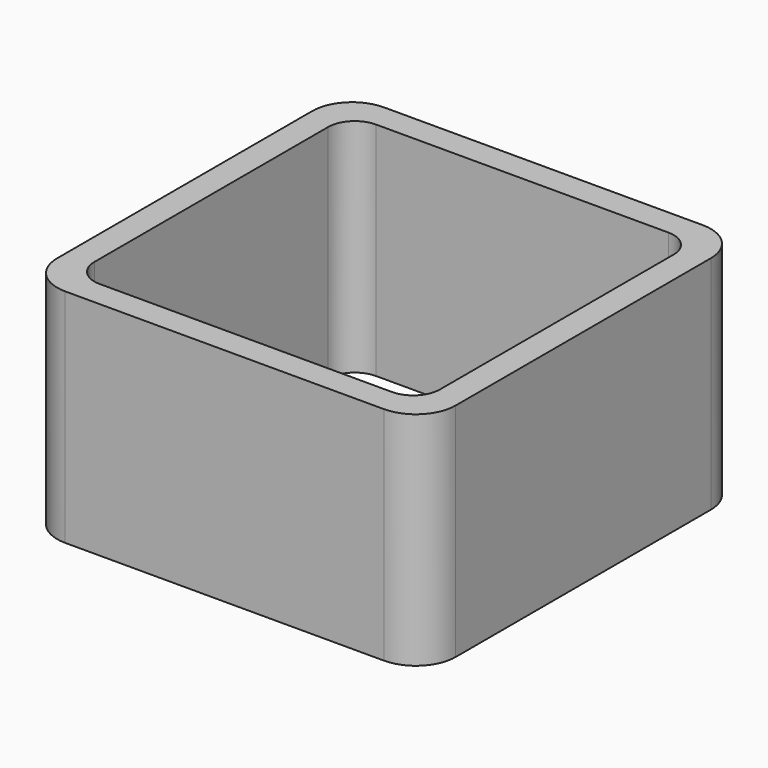
from build123d import *

# Parameters (mm, degrees)
EXTRUDE_DEPTH = 50


with BuildPart() as part:
    # Sketch → Extrude (new body)
    with BuildSketch(Plane.XY):
        with BuildLine():
            Line((-36, 45), (36, 45))
            ThreePointArc((45, 36), (42.363961, 42.363961), (36, 45))
            Line((45, 36), (45, -36))
            ThreePointArc((36, -45), (42.363961, -42.363961), (45, -36))
            Line((36, -45), (-36, -45))
            ThreePointArc((-45, -36), (-42.363961, -42.363961), (-36, -45))
            Line((-45, -36), (-45, 36))
            ThreePointArc((-36, 45), (-42.363961, 42.363961), (-45, 36))
        make_face()
        with BuildLine():
            Line((-33, 39), (33, 39))
            ThreePointArc((39, 33), (37.242641, 37.242641), (33, 39))
            Line((39, 33), (39, -33))
            ThreePointArc((33, -39), (37.242641, -37.242641), (39, -33))
            Line((33, -39), (-33, -39))
            ThreePointArc((-39, -33), (-37.242641, -37.242641), (-33, -39))
            Line((-39, -33), (-39, 33))
            ThreePointArc((-33, 39), (-37.242641, 37.242641), (-39, 33))
        make_face(mode=Mode.SUBTRACT)
    extrude(amount=EXTRUDE_DEPTH)


solid = part.part
